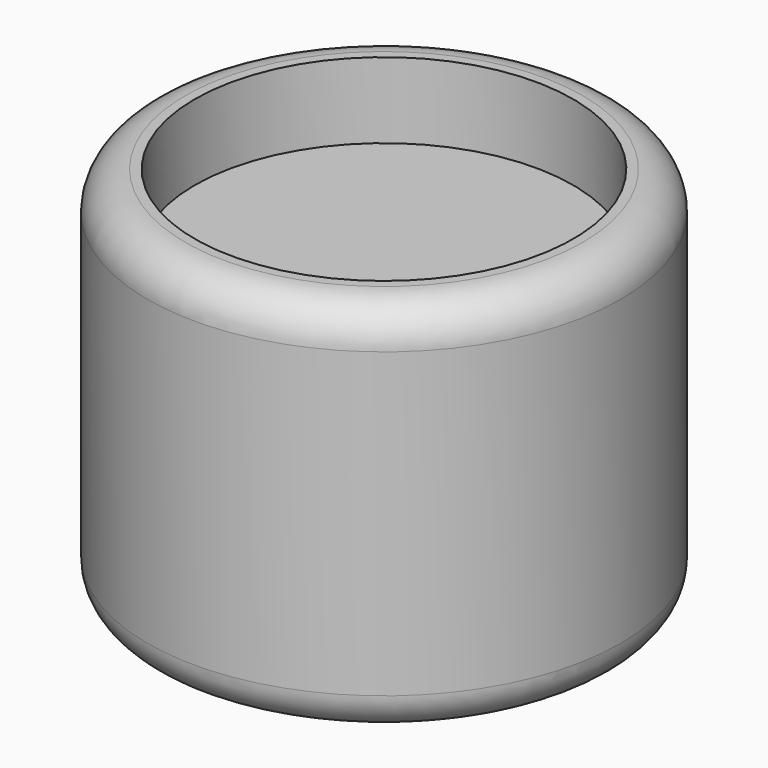
from build123d import *

# Parameters (mm, degrees)
F0_R     = 47.625
F1_DEPTH = 76.2
F4_D     = 76.2
F5_R     = 7.62
F6_R     = 7.62
F7_R     = 38.1
F8_DEPTH = 60.96


with BuildPart() as f1:
    # F0 (on Top) → F1 (new body)
    with BuildSketch(Plane.XY):
        Circle(F0_R)
    extrude(amount=F1_DEPTH)

    # F4 (through all)
    with Locations(Plane.XY.offset(76.2)):
        with Locations((0, 0)):
            Hole(F4_D / 2)

    # F5
    f5_edges = [f1.edges().sort_by_distance(p)[0] for p in [
        (-47.625, 0, 76.2),
    ]]
    fillet(f5_edges, radius=F5_R)

    # F6
    f6_edges = [f1.edges().sort_by_distance(p)[0] for p in [
        (-47.625, 0, 0),
    ]]
    fillet(f6_edges, radius=F6_R)

    # F7 (on Top) → F8 (join)
    with BuildSketch(Plane.XY):
        Circle(F7_R)
    extrude(amount=F8_DEPTH)


solid = f1.part
